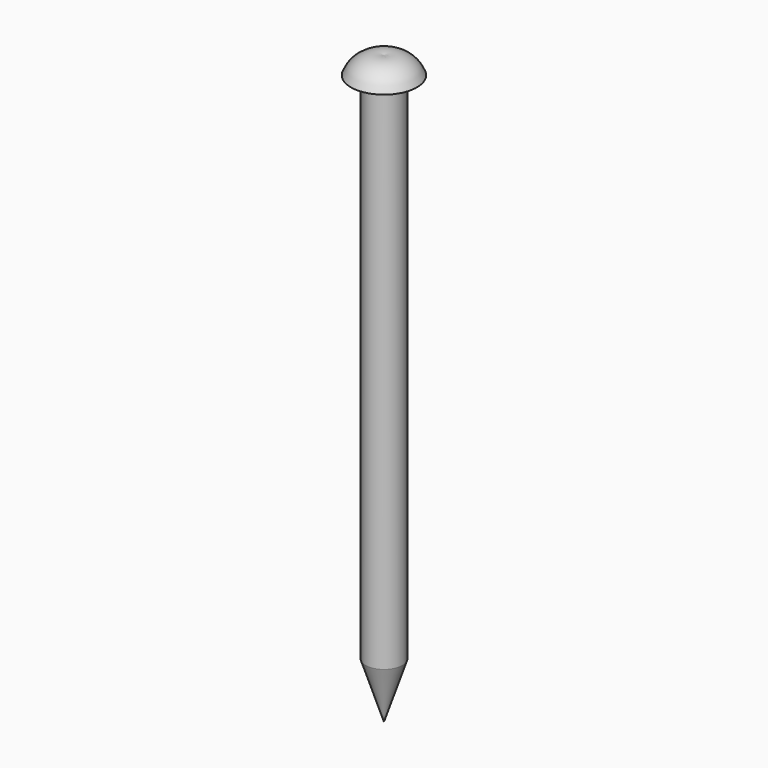
from build123d import *


with BuildPart() as f1:
    # F0 (on Front) → F1 (revolve)
    with BuildSketch(Plane.XZ):
        Polygon((0, -34.665408), (0, -29.839826), (-1.5875, -29.839826), align=None)
        with BuildLine():
            Line((-1.5875, -29.839826), (0, -29.839826))
            Line((0, -29.839826), (0, 16.134592))
            ThreePointArc((0, 16.134592), (-1.726733, 15.930948), (-2.8575, 14.610174))
            Line((-2.8575, 14.610174), (-1.5875, 14.610174))
            Line((-1.5875, 14.610174), (-1.5875, -29.839826))
        make_face()
    revolve(axis=Axis((0, 0, -8.818146), (0, 0, -1)))


solid = f1.part
